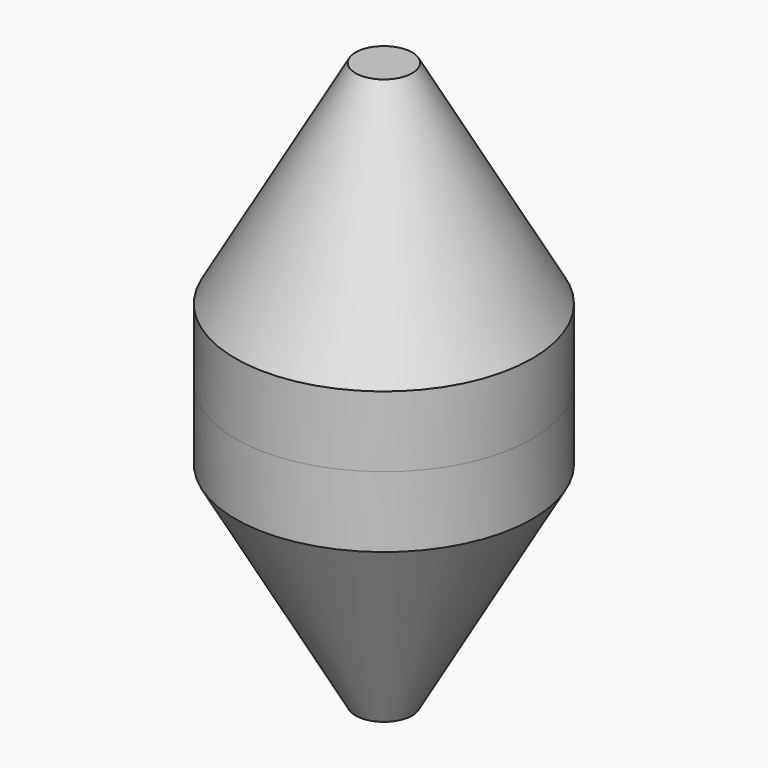
from build123d import *

# Parameters (mm, degrees)
F0_R     = 13.335
F1_DEPTH = 6.35


with BuildPart() as f1:
    # F0 (on Top) → F1 (new body)
    with BuildSketch(Plane.XY):
        Circle(F0_R)
    extrude(amount=F1_DEPTH)

    # F4 (on Right) → F6 (revolve)
    with BuildSketch(Plane.YZ):
        Polygon((0, 25.4), (0, 6.35), (13.335, 6.35), (2.54, 25.4), align=None)
    revolve(axis=Axis((0, 0, 24.791185), (0, 0, 1)))

    # F7: F1 across plane


with BuildPart() as f1_1:
    add(f1.part)
    add(f1.part.mirror(Plane.XY))


solid = f1_1.part
